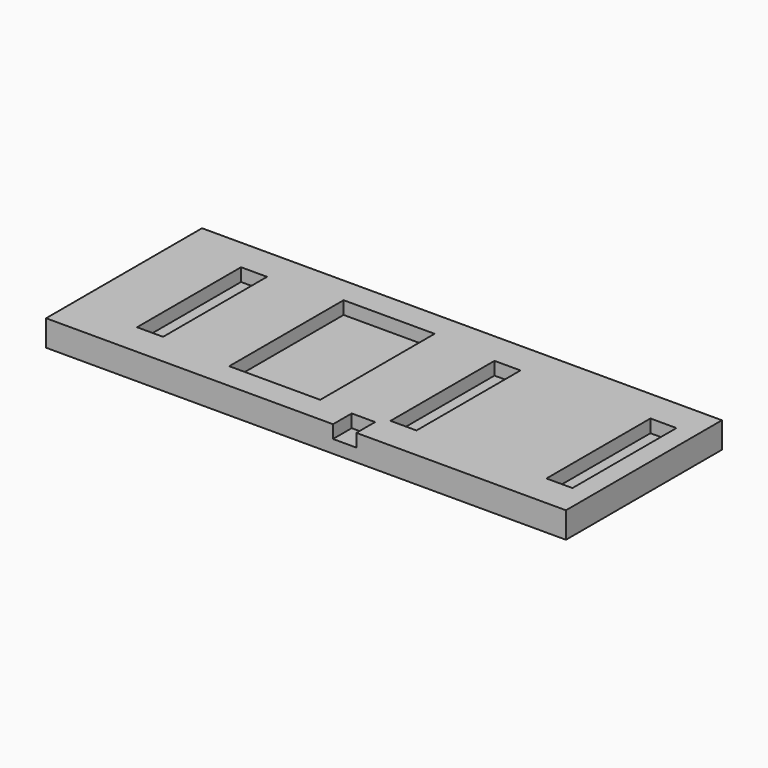
from build123d import *

# Parameters (mm, degrees)
F0_W     = 200
F0_H     = 75
F1_DEPTH = 10
F2_W     = 10
F2_H     = 50
F3_DEPTH = 5
F4_W     = 35
F4_H     = 55
F4_W_2   = 9
F4_H_2   = 9
F5_DEPTH = 5


with BuildPart() as f1:
    # F0 (on Top) → F1 (new body)
    with BuildSketch(Plane.XY):
        Rectangle(F0_W, F0_H)
    extrude(amount=F1_DEPTH)

    # F2 (on face) → F3 (cut)
    with BuildSketch(Plane.XY.offset(10)):
        with Locations((-70, 0)):
            Rectangle(F2_W, F2_H)
        with Locations((27.5, 0)):
            Rectangle(F2_W, F2_H)
        with Locations((87.5, 0)):
            Rectangle(F2_W, F2_H)
    extrude(amount=-F3_DEPTH, mode=Mode.SUBTRACT)

    # F4 (on face) → F5 (cut)
    with BuildSketch(Plane.XY.offset(10)):
        with Locations((-20.039216, 0)):
            Rectangle(F4_W, F4_H)
        with Locations((14.87713, -33)):
            Rectangle(F4_W_2, F4_H_2)
    extrude(amount=-F5_DEPTH, mode=Mode.SUBTRACT)


solid = f1.part
